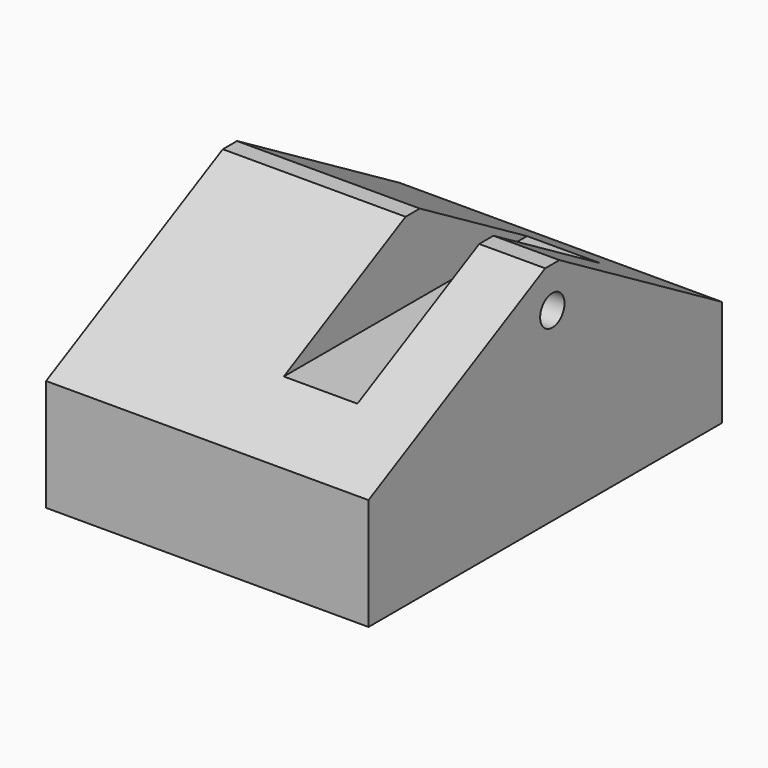
from build123d import *

# Parameters (mm, degrees)
F1_DEPTH = 63.5
F2_W     = 14.5
F2_H     = 23.934039
F3_DEPTH = 100
F4_R     = 3
F5_DEPTH = 25


with BuildPart() as f1:
    # F0 (on Right) → F1 (new body)
    with BuildSketch(Plane.YZ):
        Polygon((0, 22), (0, 0), (87, 0), (87, 21), (47, 44.5), (43.5, 44.5), align=None)
    extrude(amount=F1_DEPTH)

    # F2 (on face) → F3 (cut)
    with BuildSketch(Plane.XZ):
        with Locations((43.25, 40.958737)):
            Rectangle(F2_W, F2_H)
    extrude(amount=-F3_DEPTH, mode=Mode.SUBTRACT)

    # F4 (on face) → F5 (cut)
    with BuildSketch(Plane.YZ.offset(63.5)):
        with Locations((45.25, 36.5)):
            Circle(F4_R)
    extrude(amount=-F5_DEPTH, mode=Mode.SUBTRACT)


solid = f1.part
